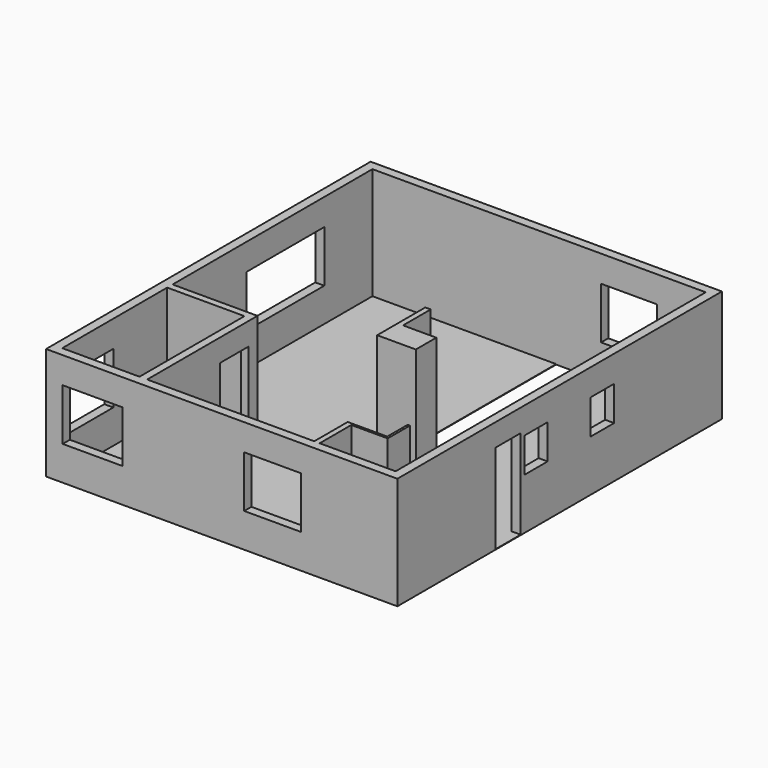
from build123d import *

# Parameters (mm, degrees)
F0_W     = 820
F0_H     = 120
F0_W_2   = 170
F0_H_2   = 800
F0_W_3   = 120
F0_H_3   = 820
F0_H_4   = 110
F0_W_4   = 200
F0_H_5   = 700
F0_W_5   = 880
F0_H_6   = 310
F0_W_6   = 405
F0_H_7   = 880
F0_W_7   = 770
F0_W_8   = 780
F0_H_8   = 100
F0_W_9   = 1000
F0_H_9   = 2670
F0_H_10  = 2020
F0_W_10  = 50
F0_H_11  = 650
F0_H_12  = 250
F0_W_11  = 100
F0_H_13  = 600
F0_H_14  = 20
F1_DEPTH = 10
F0_W_12  = 1250
F0_H_15  = 200
F0_W_13  = 1260
F0_W_14  = 1330
F0_H_16  = 1330
F0_H_17  = 2170
F2_DEPTH = 2500
F3_START = 10
F3_DEPTH = 1990
F4_START = 760
F4_DEPTH = 1150
F5_START = 1140
F5_DEPTH = 770


with BuildPart() as f1:
    # F0 (on Top) → F1 (new body)
    with BuildSketch(Plane.XY):
        Polygon((-740, -395), (260, -395), (260, 825), (260, 1645), (260, 4315), (-3710, 4315), (-3710, 2975), (-3710, 805), (-3710, -395), (-1560, -395), align=None)
        with Locations((-1150, -455)):
            Rectangle(F0_W, F0_H)
        Polygon((-3710, -1245), (-1920, -1245), (-1920, -1135), (-1920, -535), (-1920, -515), (-3710, -515), align=None)
        Polygon((1760, -4315), (1900, -4315), (1900, -3385), (1900, -1365), (1900, -545), (1900, -515), (1120, -515), (380, -515), (260, -515), (-740, -515), (-1560, -515), (-1820, -515), (-1820, -535), (-1820, -1135), (-1820, -1245), (-1820, -1495), (-1820, -2295), (-1820, -4315), (500, -4315), align=None)
        with Locations((-1905, -1895)):
            Rectangle(F0_W_2, F0_H_2)
        Polygon((-2210, -4315), (-1990, -4315), (-1990, -2295), (-1990, -1495), (-1990, -1395), (-3710, -1395), (-3710, -2895), (-3710, -4225), (-3710, -4315), (-3540, -4315), align=None)
        with Locations((1960, -955)):
            Rectangle(F0_W_3, F0_H_3)
        Polygon((2830, -2565), (2830, -2815), (3710, -2815), (3710, -1785), (3710, -1085), (3710, -985), (3710, -335), (3710, -55), (2940, -55), (2120, -55), (2020, -55), (2020, -515), (2020, -545), (2020, -1365), (2020, -1855), (2830, -1855), (2830, -1915), align=None)
        Polygon((2780, -3385), (2780, -2815), (2780, -2565), (2780, -1915), (2780, -1905), (2020, -1905), (2020, -3385), align=None)
        with Locations((2530, 0)):
            Rectangle(F0_W, F0_H_4)
        with Locations((3810, -1435)):
            Rectangle(F0_W_4, F0_H_5)
        Polygon((1120, -415), (1900, -415), (1900, 55), (2120, 55), (2940, 55), (3710, 55), (3710, 865), (3710, 1515), (3710, 4315), (2630, 4315), (1380, 4315), (1120, 4315), (1120, 55), align=None)
        with Locations((320, 1235)):
            Rectangle(F0_W_3, F0_H_3)
        with Locations((3270, -2970)):
            Rectangle(F0_W_5, F0_H_6)
        with Locations((3270, -3280)):
            Rectangle(F0_W_5, F0_H_6)
        Polygon((2830, -3435), (3710, -3799.5079348883), (3710, -3435), align=None)
        Polygon((2830, -3435), (3710, -4315), (3710, -3799.5079348883), align=None)
        Polygon((3194.5079348883, -4315), (3710, -4315), (2830, -3435), align=None)
        Polygon((2830, -4315), (3194.5079348883, -4315), (2830, -3435), align=None)
        with Locations((2627.5, -3875)):
            Rectangle(F0_W_6, F0_H_7)
        with Locations((2222.5, -3875)):
            Rectangle(F0_W_6, F0_H_7)
        Polygon((1900, -3385), (2020, -3385), (2020, -1905), (2020, -1855), (2020, -1365), (1900, -1365), align=None)
        with Locations((3325, 0)):
            Rectangle(F0_W_7, F0_H_4)
        Polygon((2020, -4315), (2020, -3435), (2020, -3385), (1900, -3385), (1900, -4315), align=None)
        Polygon((1900, -515), (1900, -545), (2020, -545), (2020, -515), (2020, -55), (2120, -55), (2120, 55), (1900, 55), (1900, -415), align=None)
        with Locations((1510, -465)):
            Rectangle(F0_W_8, F0_H_8)
        Polygon((380, -515), (1120, -515), (1120, -415), (1120, 55), (380, 55), align=None)
        Polygon((260, -515), (380, -515), (380, 55), (380, 825), (260, 825), (260, -395), align=None)
        with Locations((-240, -455)):
            Rectangle(F0_W_9, F0_H)
        with Locations((320, 2980)):
            Rectangle(F0_W_3, F0_H_9)
        with Locations((-1905, -3305)):
            Rectangle(F0_W_2, F0_H_10)
        Polygon((2780, -1915), (2830, -1915), (2830, -1855), (2020, -1855), (2020, -1905), (2780, -1905), align=None)
        with Locations((2805, -2240)):
            Rectangle(F0_W_10, F0_H_11)
        with Locations((2805, -2690)):
            Rectangle(F0_W_10, F0_H_12)
        Polygon((2425, -3435), (2830, -3435), (2830, -3125), (2830, -2815), (2780, -2815), (2780, -3385), (2020, -3385), (2020, -3435), align=None)
        Polygon((-1990, -1495), (-1820, -1495), (-1820, -1245), (-1920, -1245), (-3710, -1245), (-3710, -1395), (-1990, -1395), align=None)
        with Locations((-1870, -1190)):
            Rectangle(F0_W_11, F0_H_4)
        with Locations((-1870, -835)):
            Rectangle(F0_W_11, F0_H_13)
        with Locations((-1870, -525)):
            Rectangle(F0_W_11, F0_H_14)
        Polygon((-1820, -515), (-1560, -515), (-1560, -395), (-3710, -395), (-3710, -515), (-1920, -515), align=None)
    extrude(amount=F1_DEPTH)

    # F0 (on Top) → F2 (join)
    with BuildSketch(Plane.XY):
        Polygon((380, 4315), (1120, 4315), (1380, 4315), (1380, 4515), (-3910, 4515), (-3910, 2975), (-3710, 2975), (-3710, 4315), (260, 4315), align=None)
        with Locations((2005, 4415)):
            Rectangle(F0_W_12, F0_H_15)
        Polygon((3710, 1515), (3910, 1515), (3910, 4515), (2630, 4515), (2630, 4315), (3710, 4315), align=None)
        with Locations((3810, 1190)):
            Rectangle(F0_W_4, F0_H_11)
        Polygon((3710, -55), (3710, -335), (3910, -335), (3910, 865), (3710, 865), (3710, 55), align=None)
        with Locations((3810, -660)):
            Rectangle(F0_W_4, F0_H_11)
        with Locations((3810, -1035)):
            Rectangle(F0_W_4, F0_H_8)
        with Locations((3810, -1435)):
            Rectangle(F0_W_4, F0_H_5)
        Polygon((3710, -3799.5079348883), (3710, -4315), (3194.5079348883, -4315), (2830, -4315), (2425, -4315), (2020, -4315), (1900, -4315), (1760, -4315), (1760, -4515), (3910, -4515), (3910, -1785), (3710, -1785), (3710, -2815), (3710, -3125), (3710, -3435), align=None)
        with Locations((1130, -4415)):
            Rectangle(F0_W_13, F0_H_15)
        Polygon((500, -4515), (500, -4315), (-1820, -4315), (-1990, -4315), (-2210, -4315), (-2210, -4515), align=None)
        with Locations((-2875, -4415)):
            Rectangle(F0_W_14, F0_H_15)
        Polygon((-3910, -4515), (-3540, -4515), (-3540, -4315), (-3710, -4315), (-3710, -4225), (-3910, -4225), align=None)
        with Locations((-3810, -3560)):
            Rectangle(F0_W_4, F0_H_16)
        Polygon((-3710, -2895), (-3710, -1395), (-3710, -1245), (-3710, -515), (-3710, -395), (-3710, 805), (-3910, 805), (-3910, -2895), align=None)
        with Locations((-3810, 1890)):
            Rectangle(F0_W_4, F0_H_17)
        Polygon((380, -515), (1120, -515), (1120, -415), (1120, 55), (380, 55), align=None)
        with Locations((-1905, -3305)):
            Rectangle(F0_W_2, F0_H_10)
        with Locations((-1905, -1895)):
            Rectangle(F0_W_2, F0_H_2)
        Polygon((-1990, -1495), (-1820, -1495), (-1820, -1245), (-1920, -1245), (-3710, -1245), (-3710, -1395), (-1990, -1395), align=None)
        Polygon((2020, -4315), (2020, -3435), (2020, -3385), (1900, -3385), (1900, -4315), align=None)
        Polygon((2425, -3435), (2830, -3435), (2830, -3125), (2830, -2815), (2780, -2815), (2780, -3385), (2020, -3385), (2020, -3435), align=None)
        Polygon((260, -515), (380, -515), (380, 55), (380, 825), (260, 825), (260, -395), align=None)
    extrude(amount=F2_DEPTH)

    # F0 (on Top) → F3 (cut)
    with BuildSketch(Plane.XY.offset(F3_START)):
        with Locations((2530, 0)):
            Rectangle(F0_W, F0_H_4)
        with Locations((1960, -955)):
            Rectangle(F0_W_3, F0_H_3)
        with Locations((320, 1235)):
            Rectangle(F0_W_3, F0_H_3)
        with Locations((-1150, -455)):
            Rectangle(F0_W, F0_H)
        with Locations((-1870, -835)):
            Rectangle(F0_W_11, F0_H_13)
        with Locations((-1905, -1895)):
            Rectangle(F0_W_2, F0_H_2)
        with Locations((3810, -1435)):
            Rectangle(F0_W_4, F0_H_5)
        with Locations((2805, -2240)):
            Rectangle(F0_W_10, F0_H_11)
    extrude(amount=F3_DEPTH, mode=Mode.SUBTRACT)

    # F0 (on Top) → F4 (cut)
    with BuildSketch(Plane.XY.offset(F4_START)):
        with Locations((2005, 4415)):
            Rectangle(F0_W_12, F0_H_15)
        with Locations((-3810, 1890)):
            Rectangle(F0_W_4, F0_H_17)
        with Locations((-3810, -3560)):
            Rectangle(F0_W_4, F0_H_16)
        with Locations((-2875, -4415)):
            Rectangle(F0_W_14, F0_H_15)
        with Locations((1130, -4415)):
            Rectangle(F0_W_13, F0_H_15)
    extrude(amount=F4_DEPTH, mode=Mode.SUBTRACT)

    # F0 (on Top) → F5 (cut)
    with BuildSketch(Plane.XY.offset(F5_START)):
        with Locations((3810, 1190)):
            Rectangle(F0_W_4, F0_H_11)
        with Locations((3810, -660)):
            Rectangle(F0_W_4, F0_H_11)
    extrude(amount=F5_DEPTH, mode=Mode.SUBTRACT)


solid = f1.part
